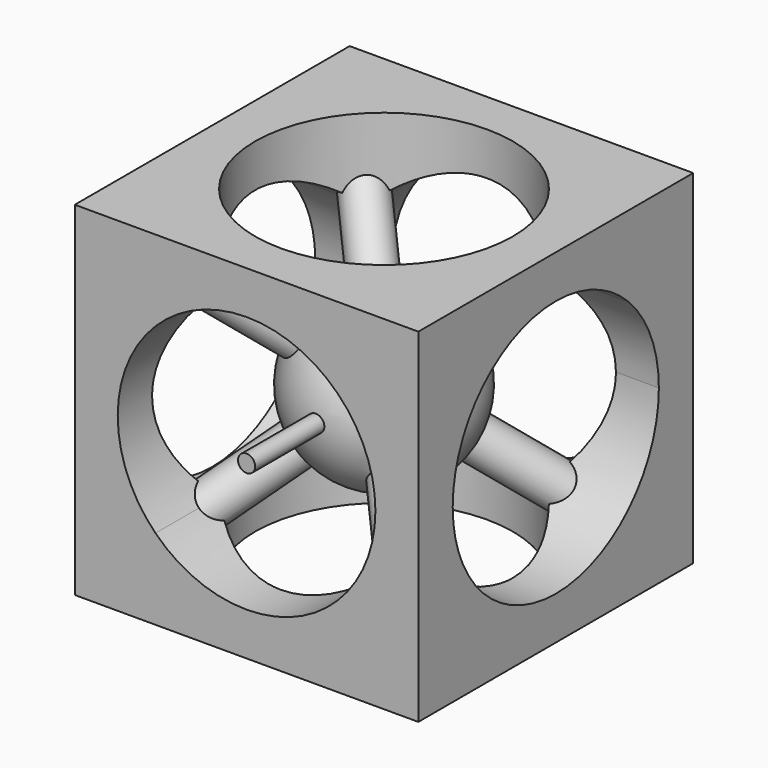
from build123d import *

# Parameters (mm, degrees)
F0_W      = 40
F0_H      = 40
F1_DEPTH  = 40
F3_DEPTH  = 40
F5_DEPTH  = 40
F7_DEPTH  = 40
F23_R     = 1
F24_DEPTH = 12


with BuildPart() as f1:
    # F0 (on Top) → F1 (new body)
    with BuildSketch(Plane.XY):
        with Locations((20, 20)):
            Rectangle(F0_W, F0_H)
    extrude(amount=F1_DEPTH)

    # F2 (on face) → F3 (cut)
    with BuildSketch(Plane.XZ):
        with BuildLine():
            ThreePointArc((30.6066017178, 30.6066017178), (9.3933982822, 30.6066017178), (9.3933982822, 9.3933982822))
            Line((9.3933982822, 9.3933982822), (30.6066017178, 30.6066017178))
        make_face()
        with BuildLine():
            Line((30.6066017178, 30.6066017178), (9.3933982822, 9.3933982822))
            ThreePointArc((9.3933982822, 9.3933982822), (25.7402514855, 6.1418070123), (35, 20))
            ThreePointArc((35, 20), (33.8581929877, 25.7402514855), (30.6066017178, 30.6066017178))
        make_face()
    extrude(amount=-F3_DEPTH, mode=Mode.SUBTRACT)

    # F4 (on face) → F5 (cut)
    with BuildSketch(Plane.YZ.offset(40)):
        with BuildLine():
            ThreePointArc((30.6066017178, 30.6066017178), (9.3933982822, 30.6066017178), (9.3933982822, 9.3933982822))
            Line((9.3933982822, 9.3933982822), (30.6066017178, 30.6066017178))
        make_face()
        with BuildLine():
            Line((30.6066017178, 30.6066017178), (9.3933982822, 9.3933982822))
            ThreePointArc((9.3933982822, 9.3933982822), (25.7402514855, 6.1418070123), (35, 20))
            ThreePointArc((35, 20), (33.8581929877, 25.7402514855), (30.6066017178, 30.6066017178))
        make_face()
    extrude(amount=-F5_DEPTH, mode=Mode.SUBTRACT)

    # F6 (on face) → F7 (cut)
    with BuildSketch(Plane.XY.offset(40)):
        with BuildLine():
            ThreePointArc((35, 20), (33.8581929877, 25.7402514855), (30.6066017178, 30.6066017178))
            Line((30.6066017178, 30.6066017178), (9.3933982822, 9.3933982822))
            ThreePointArc((9.3933982822, 9.3933982822), (25.7402514855, 6.1418070123), (35, 20))
        make_face()
        with BuildLine():
            Line((9.3933982822, 9.3933982822), (30.6066017178, 30.6066017178))
            ThreePointArc((30.6066017178, 30.6066017178), (9.3933982822, 30.6066017178), (9.3933982822, 9.3933982822))
        make_face()
    extrude(amount=-F7_DEPTH, mode=Mode.SUBTRACT)

    # F9 (on 3pt) → F10 (revolve)
    with BuildSketch(Plane(origin=(20, 20, 0), x_dir=(0.7071067812, -0.7071067812, 0), z_dir=(-0.7071067812, -0.7071067812, 0))):
        Polygon((-22.5797529519, 4.0337035702), (21.9394321001, 35.5135212134), (20.4960564271, 37.5547626657), (-24.0231286249, 6.0749450225), align=None)
    revolve(axis=Axis((20, 20, 20), (-0.5773502692, 0.5773502692, -0.5773502692)))

    # F11 (on 3pt) → F12 (revolve)
    with BuildSketch(Plane(origin=(20, 20, 0), x_dir=(0.7071067812, -0.7071067812, 0), z_dir=(-0.7071067812, -0.7071067812, 0))):
        Polygon((24.210360235, 2.8806901028), (-23.4261093137, 36.5647607526), (-24.8694849867, 34.5235193002), (22.766984562, 0.8394486505), align=None)
    revolve(axis=Axis((20, 20, 20), (0.5773502692, -0.5773502692, -0.5773502692)))

    # F14 (on 3pt) → F15 (revolve)
    with BuildSketch(Plane(origin=(0, 20, 20), x_dir=(1, 0, 0), z_dir=(0, -0.7071067812, -0.7071067812))):
        Polygon((36.8818231981, -23.8745033243), (2.200417413, 25.1724110991), (1.2350874665, 22.2074667827), (34.8405817458, -25.3178789973), align=None)
    revolve(axis=Axis((20, 20, 20), (0.5773502692, 0.5773502692, -0.5773502692)))

    # F17 (on 3pt) → F18 (revolve)
    with BuildSketch(Plane(origin=(0, 0, 0), x_dir=(0, -1, 0), z_dir=(-0.7071067812, 0, 0.7071067812))):
        Polygon((-37.0044119412, 52.3321412349), (-1.6648592775, 2.3544665697), (0, 4.3301270189), (-34.9631704889, 53.7755169078), align=None)
    revolve(axis=Axis((20, 20, 20), (0.5773502692, 0.5773502692, 0.5773502692)))

    # F19 (on 3pt) → F20 (revolve)
    with BuildSketch(Plane(origin=(0, 0, 0), x_dir=(0, -1, 0), z_dir=(-0.7071067812, 0, 0.7071067812))):
        with BuildLine():
            ThreePointArc((-14.2264973081, 20.1193054382), (-11.8350341907, 34.0577739394), (-25.7735026919, 36.4492370567))
            Line((-25.7735026919, 36.4492370567), (-14.2264973081, 20.1193054382))
        make_face()
    revolve(axis=Axis((20, 20, 20), (-0.5773502692, -0.5773502692, -0.5773502692)))

    # F21 (on 3pt) → F22 (revolve, cut)
    with BuildSketch(Plane(origin=(0, 0, 0), x_dir=(0, -1, 0), z_dir=(-0.7071067812, 0, 0.7071067812))):
        with BuildLine():
            Line((-15.9585481157, 22.568795181), (-24.0414518843, 33.999747314))
            ThreePointArc((-24.0414518843, 33.999747314), (-25.7154760665, 24.2428193631), (-15.9585481157, 22.568795181))
        make_face()
    revolve(axis=Axis((20, 20, 20), (-0.5773502692, -0.5773502692, -0.5773502692)), mode=Mode.SUBTRACT)


with BuildPart() as f24:
    # F23 (on face) → F24 (new body)
    with BuildSketch(Plane.XZ):
        with Locations((20, 20)):
            Circle(F23_R)
    extrude(amount=-F24_DEPTH)


solid = Compound([f1.part, f24.part])
